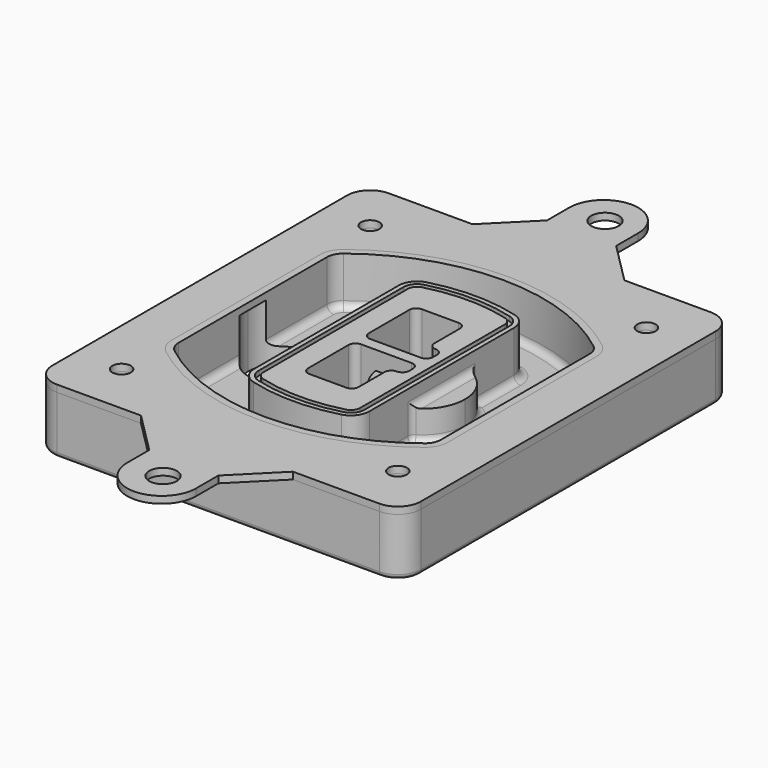
from build123d import *

# Parameters (mm, degrees)
F0_R      = 4
F1_DEPTH  = 25
F2_DEPTH  = 3
F3_DEPTH  = 18
F5_DEPTH  = 21
F6_DEPTH  = 2
F8_DEPTH  = 20
F9_DEPTH  = 16
F10_DEPTH = 25
F7_R      = 6
F7_R_2    = 4
F11_DEPTH = 6
F13_DEPTH = 9
F14_R     = 3
F15_R     = 2
F16_R     = 6
F16_R_2   = 4
F17_DEPTH = 3


with BuildPart() as f1:
    # F0 (on Top) → F1 (new body)
    with BuildSketch(Plane.XY):
        with BuildLine():
            ThreePointArc((14.05, 38.3825811321), (16.9789321881, 31.3115133202), (24.05, 28.3825811321))
            Line((24.05, 28.3825811321), (164.05, 28.3825811321))
            ThreePointArc((164.05, 28.3825811321), (171.1210678119, 31.3115133202), (174.05, 38.3825811321))
            Line((174.05, 38.3825811321), (174.05, 198.3825811321))
            ThreePointArc((174.05, 198.3825811321), (171.1210678119, 205.4536489439), (164.05, 208.3825811321))
            Line((164.05, 208.3825811321), (24.05, 208.3825811321))
            ThreePointArc((24.05, 208.3825811321), (16.9789321881, 205.4536489439), (14.05, 198.3825811321))
            Line((14.05, 198.3825811321), (14.05, 38.3825811321))
        make_face()
        with Locations((34.05, 50.8825811321)):
            Circle(F0_R, mode=Mode.SUBTRACT)
        with Locations((154.05, 50.8825811321)):
            Circle(F0_R, mode=Mode.SUBTRACT)
        with BuildLine():
            ThreePointArc((30.05, 158.6760234193), (31.4679615202, 164.8154295545), (35.4346153846, 169.7112011673))
            ThreePointArc((35.4346153846, 169.7112011673), (94.05, 189.8825811321), (152.6653846154, 169.7112011673))
            ThreePointArc((152.6653846154, 169.7112011673), (156.6320384798, 164.8154295545), (158.05, 158.6760234193))
            Line((158.05, 158.6760234193), (158.05, 78.0891388448))
            ThreePointArc((158.05, 78.0891388448), (156.6320384798, 71.9497327097), (152.6653846154, 67.0539610969))
            ThreePointArc((152.6653846154, 67.0539610969), (94.05, 46.8825811321), (35.4346153846, 67.0539610969))
            ThreePointArc((35.4346153846, 67.0539610969), (31.4679615202, 71.9497327097), (30.05, 78.0891388448))
            Line((30.05, 78.0891388448), (30.05, 158.6760234193))
        make_face(mode=Mode.SUBTRACT)
        with Locations((34.05, 185.8825811321)):
            Circle(F0_R, mode=Mode.SUBTRACT)
        with Locations((154.05, 185.8825811321)):
            Circle(F0_R, mode=Mode.SUBTRACT)
        with BuildLine():
            ThreePointArc((152.6653846154, 169.7112011673), (94.05, 189.8825811321), (35.4346153846, 169.7112011673))
            ThreePointArc((35.4346153846, 169.7112011673), (31.4679615202, 164.8154295545), (30.05, 158.6760234193))
            Line((30.05, 158.6760234193), (30.05, 78.0891388448))
            ThreePointArc((30.05, 78.0891388448), (31.4679615202, 71.9497327097), (35.4346153846, 67.0539610969))
            ThreePointArc((35.4346153846, 67.0539610969), (94.05, 46.8825811321), (152.6653846154, 67.0539610969))
            ThreePointArc((152.6653846154, 67.0539610969), (156.6320384798, 71.9497327097), (158.05, 78.0891388448))
            Line((158.05, 78.0891388448), (158.05, 158.6760234193))
            ThreePointArc((158.05, 158.6760234193), (156.6320384798, 164.8154295545), (152.6653846154, 169.7112011673))
        make_face()
        with BuildLine():
            Line((34.05, 78.0891388448), (34.05, 158.6760234193))
            ThreePointArc((34.05, 158.6760234193), (35.0628296573, 163.0613135158), (37.8961538462, 166.5582932393))
            ThreePointArc((37.8961538462, 166.5582932393), (94.05, 185.8825811321), (150.2038461538, 166.5582932393))
            ThreePointArc((150.2038461538, 166.5582932393), (153.0371703427, 163.0613135158), (154.05, 158.6760234193))
            Line((154.05, 158.6760234193), (154.05, 78.0891388448))
            ThreePointArc((154.05, 78.0891388448), (153.0371703427, 73.7038487483), (150.2038461538, 70.2068690248))
            ThreePointArc((150.2038461538, 70.2068690248), (94.05, 50.8825811321), (37.8961538462, 70.2068690248))
            ThreePointArc((37.8961538462, 70.2068690248), (35.0628296573, 73.7038487483), (34.05, 78.0891388448))
        make_face(mode=Mode.SUBTRACT)
        with BuildLine():
            ThreePointArc((37.8961538462, 166.5582932393), (35.0628296573, 163.0613135158), (34.05, 158.6760234193))
            Line((34.05, 158.6760234193), (34.05, 78.0891388448))
            ThreePointArc((34.05, 78.0891388448), (35.0628296573, 73.7038487483), (37.8961538462, 70.2068690248))
            ThreePointArc((37.8961538462, 70.2068690248), (94.05, 50.8825811321), (150.2038461538, 70.2068690248))
            ThreePointArc((150.2038461538, 70.2068690248), (153.0371703427, 73.7038487483), (154.05, 78.0891388448))
            Line((154.05, 78.0891388448), (154.05, 158.6760234193))
            ThreePointArc((154.05, 158.6760234193), (153.0371703427, 163.0613135158), (150.2038461538, 166.5582932393))
            ThreePointArc((150.2038461538, 166.5582932393), (94.05, 185.8825811321), (37.8961538462, 166.5582932393))
        make_face()
        with BuildLine():
            ThreePointArc((148.3576923077, 164.1936122933), (150.3410192399, 161.7457264869), (151.05, 158.6760234193))
            Line((151.05, 158.6760234193), (151.05, 78.0891388448))
            ThreePointArc((151.05, 78.0891388448), (150.3410192399, 75.0194357772), (148.3576923077, 72.5715499708))
            ThreePointArc((148.3576923077, 72.5715499708), (94.05, 53.8825811321), (39.7423076923, 72.5715499708))
            ThreePointArc((39.7423076923, 72.5715499708), (37.7589807601, 75.0194357772), (37.05, 78.0891388448))
            Line((37.05, 78.0891388448), (37.05, 158.6760234193))
            ThreePointArc((37.05, 158.6760234193), (37.7589807601, 161.7457264869), (39.7423076923, 164.1936122933))
            ThreePointArc((39.7423076923, 164.1936122933), (94.05, 182.8825811321), (148.3576923077, 164.1936122933))
        make_face(mode=Mode.SUBTRACT)
        with BuildLine():
            Line((151.05, 78.0891388448), (151.05, 158.6760234193))
            ThreePointArc((151.05, 158.6760234193), (150.3410192399, 161.7457264869), (148.3576923077, 164.1936122933))
            ThreePointArc((148.3576923077, 164.1936122933), (94.05, 182.8825811321), (39.7423076923, 164.1936122933))
            ThreePointArc((39.7423076923, 164.1936122933), (37.7589807601, 161.7457264869), (37.05, 158.6760234193))
            Line((37.05, 158.6760234193), (37.05, 78.0891388448))
            ThreePointArc((37.05, 78.0891388448), (37.7589807601, 75.0194357772), (39.7423076923, 72.5715499708))
            ThreePointArc((39.7423076923, 72.5715499708), (94.05, 53.8825811321), (148.3576923077, 72.5715499708))
            ThreePointArc((148.3576923077, 72.5715499708), (150.3410192399, 75.0194357772), (151.05, 78.0891388448))
        make_face()
    extrude(amount=-F1_DEPTH)

    # F0 (on Top) → F2 (join)
    with BuildSketch(Plane.XY):
        with BuildLine():
            ThreePointArc((37.8961538462, 166.5582932393), (35.0628296573, 163.0613135158), (34.05, 158.6760234193))
            Line((34.05, 158.6760234193), (34.05, 78.0891388448))
            ThreePointArc((34.05, 78.0891388448), (35.0628296573, 73.7038487483), (37.8961538462, 70.2068690248))
            ThreePointArc((37.8961538462, 70.2068690248), (94.05, 50.8825811321), (150.2038461538, 70.2068690248))
            ThreePointArc((150.2038461538, 70.2068690248), (153.0371703427, 73.7038487483), (154.05, 78.0891388448))
            Line((154.05, 78.0891388448), (154.05, 158.6760234193))
            ThreePointArc((154.05, 158.6760234193), (153.0371703427, 163.0613135158), (150.2038461538, 166.5582932393))
            ThreePointArc((150.2038461538, 166.5582932393), (94.05, 185.8825811321), (37.8961538462, 166.5582932393))
        make_face()
        with BuildLine():
            ThreePointArc((148.3576923077, 164.1936122933), (150.3410192399, 161.7457264869), (151.05, 158.6760234193))
            Line((151.05, 158.6760234193), (151.05, 78.0891388448))
            ThreePointArc((151.05, 78.0891388448), (150.3410192399, 75.0194357772), (148.3576923077, 72.5715499708))
            ThreePointArc((148.3576923077, 72.5715499708), (94.05, 53.8825811321), (39.7423076923, 72.5715499708))
            ThreePointArc((39.7423076923, 72.5715499708), (37.7589807601, 75.0194357772), (37.05, 78.0891388448))
            Line((37.05, 78.0891388448), (37.05, 158.6760234193))
            ThreePointArc((37.05, 158.6760234193), (37.7589807601, 161.7457264869), (39.7423076923, 164.1936122933))
            ThreePointArc((39.7423076923, 164.1936122933), (94.05, 182.8825811321), (148.3576923077, 164.1936122933))
        make_face(mode=Mode.SUBTRACT)
    extrude(amount=F2_DEPTH)

    # F0 (on Top) → F3 (cut)
    with BuildSketch(Plane.XY):
        with BuildLine():
            Line((151.05, 78.0891388448), (151.05, 158.6760234193))
            ThreePointArc((151.05, 158.6760234193), (150.3410192399, 161.7457264869), (148.3576923077, 164.1936122933))
            ThreePointArc((148.3576923077, 164.1936122933), (94.05, 182.8825811321), (39.7423076923, 164.1936122933))
            ThreePointArc((39.7423076923, 164.1936122933), (37.7589807601, 161.7457264869), (37.05, 158.6760234193))
            Line((37.05, 158.6760234193), (37.05, 78.0891388448))
            ThreePointArc((37.05, 78.0891388448), (37.7589807601, 75.0194357772), (39.7423076923, 72.5715499708))
            ThreePointArc((39.7423076923, 72.5715499708), (94.05, 53.8825811321), (148.3576923077, 72.5715499708))
            ThreePointArc((148.3576923077, 72.5715499708), (150.3410192399, 75.0194357772), (151.05, 78.0891388448))
        make_face()
    extrude(amount=-F3_DEPTH, mode=Mode.SUBTRACT)

    # F4 (on face) → F5 (join, through all)
    with BuildSketch(Plane.XY.offset(3)):
        with BuildLine():
            ThreePointArc((69.05, 79.13605345), (70.6988454002, 74.2716074128), (74.9657088123, 71.4123412437))
            ThreePointArc((74.9657088123, 71.4123412437), (94.05, 68.8825811321), (113.1342911877, 71.4123412437))
            ThreePointArc((113.1342911877, 71.4123412437), (117.4011545998, 74.2716074128), (119.05, 79.13605345))
            Line((119.05, 79.13605345), (119.05, 157.6291088141))
            ThreePointArc((119.05, 157.6291088141), (117.4011545998, 162.4935548514), (113.1342911877, 165.3528210204))
            ThreePointArc((113.1342911877, 165.3528210204), (94.05, 167.8825811321), (74.9657088123, 165.3528210204))
            ThreePointArc((74.9657088123, 165.3528210204), (70.6988454002, 162.4935548514), (69.05, 157.6291088141))
            Line((69.05, 157.6291088141), (69.05, 79.13605345))
        make_face()
        with BuildLine():
            ThreePointArc((112.6132183908, 163.4218929688), (115.8133659499, 161.2774433421), (117.05, 157.6291088141))
            Line((117.05, 157.6291088141), (117.05, 79.13605345))
            ThreePointArc((117.05, 79.13605345), (115.8133659499, 75.4877189221), (112.6132183908, 73.3432692953))
            ThreePointArc((112.6132183908, 73.3432692953), (94.05, 70.8825811321), (75.4867816092, 73.3432692953))
            ThreePointArc((75.4867816092, 73.3432692953), (72.2866340501, 75.4877189221), (71.05, 79.13605345))
            Line((71.05, 79.13605345), (71.05, 157.6291088141))
            ThreePointArc((71.05, 157.6291088141), (72.2866340501, 161.2774433421), (75.4867816092, 163.4218929688))
            ThreePointArc((75.4867816092, 163.4218929688), (94.05, 165.8825811321), (112.6132183908, 163.4218929688))
        make_face(mode=Mode.SUBTRACT)
        with BuildLine():
            Line((117.05, 79.13605345), (117.05, 157.6291088141))
            ThreePointArc((117.05, 157.6291088141), (115.8133659499, 161.2774433421), (112.6132183908, 163.4218929688))
            ThreePointArc((112.6132183908, 163.4218929688), (94.05, 165.8825811321), (75.4867816092, 163.4218929688))
            ThreePointArc((75.4867816092, 163.4218929688), (72.2866340501, 161.2774433421), (71.05, 157.6291088141))
            Line((71.05, 157.6291088141), (71.05, 79.13605345))
            ThreePointArc((71.05, 79.13605345), (72.2866340501, 75.4877189221), (75.4867816092, 73.3432692953))
            ThreePointArc((75.4867816092, 73.3432692953), (94.05, 70.8825811321), (112.6132183908, 73.3432692953))
            ThreePointArc((112.6132183908, 73.3432692953), (115.8133659499, 75.4877189221), (117.05, 79.13605345))
        make_face()
        with BuildLine():
            ThreePointArc((112.0921455939, 161.4909649173), (114.2255772999, 160.0613318328), (115.05, 157.6291088141))
            Line((115.05, 157.6291088141), (115.05, 79.13605345))
            ThreePointArc((115.05, 79.13605345), (114.2255772999, 76.7038304314), (112.0921455939, 75.2741973469))
            ThreePointArc((112.0921455939, 75.2741973469), (94.05, 72.8825811321), (76.0078544061, 75.2741973469))
            ThreePointArc((76.0078544061, 75.2741973469), (73.8744227001, 76.7038304314), (73.05, 79.13605345))
            Line((73.05, 79.13605345), (73.05, 157.6291088141))
            ThreePointArc((73.05, 157.6291088141), (73.8744227001, 160.0613318328), (76.0078544061, 161.4909649173))
            ThreePointArc((76.0078544061, 161.4909649173), (94.05, 163.8825811321), (112.0921455939, 161.4909649173))
        make_face(mode=Mode.SUBTRACT)
        with BuildLine():
            Line((115.05, 79.13605345), (115.05, 157.6291088141))
            ThreePointArc((115.05, 157.6291088141), (114.2255772999, 160.0613318328), (112.0921455939, 161.4909649173))
            ThreePointArc((112.0921455939, 161.4909649173), (94.05, 163.8825811321), (76.0078544061, 161.4909649173))
            ThreePointArc((76.0078544061, 161.4909649173), (73.8744227001, 160.0613318328), (73.05, 157.6291088141))
            Line((73.05, 157.6291088141), (73.05, 79.13605345))
            ThreePointArc((73.05, 79.13605345), (73.8744227001, 76.7038304314), (76.0078544061, 75.2741973469))
            ThreePointArc((76.0078544061, 75.2741973469), (94.05, 72.8825811321), (112.0921455939, 75.2741973469))
            ThreePointArc((112.0921455939, 75.2741973469), (114.2255772999, 76.7038304314), (115.05, 79.13605345))
        make_face()
        with BuildLine():
            Line((86.05, 115.8825811321), (108.05, 115.8825811321))
            ThreePointArc((108.05, 115.8825811321), (110.1713203436, 115.0039014756), (111.05, 112.8825811321))
            Line((111.05, 112.8825811321), (111.05, 110.8825811321))
            ThreePointArc((111.05, 110.8825811321), (110.1713203436, 108.7612607885), (108.05, 107.8825811321))
            ThreePointArc((108.05, 107.8825811321), (105.9286796564, 107.0039014756), (105.05, 104.8825811321))
            Line((105.05, 104.8825811321), (105.05, 90.8825811321))
            ThreePointArc((105.05, 90.8825811321), (104.1713203436, 88.7612607885), (102.05, 87.8825811321))
            Line((102.05, 87.8825811321), (86.05, 87.8825811321))
            ThreePointArc((86.05, 87.8825811321), (83.9286796564, 88.7612607885), (83.05, 90.8825811321))
            Line((83.05, 90.8825811321), (83.05, 112.8825811321))
            ThreePointArc((83.05, 112.8825811321), (83.9286796564, 115.0039014756), (86.05, 115.8825811321))
        make_face(mode=Mode.SUBTRACT)
        with BuildLine():
            ThreePointArc((86.05, 120.8825811321), (83.9286796564, 121.7612607885), (83.05, 123.8825811321))
            Line((83.05, 123.8825811321), (83.05, 145.8825811321))
            ThreePointArc((83.05, 145.8825811321), (83.9286796564, 148.0039014756), (86.05, 148.8825811321))
            Line((86.05, 148.8825811321), (102.05, 148.8825811321))
            ThreePointArc((102.05, 148.8825811321), (104.1713203436, 148.0039014756), (105.05, 145.8825811321))
            Line((105.05, 145.8825811321), (105.05, 131.8825811321))
            ThreePointArc((105.05, 131.8825811321), (105.9286796564, 129.7612607885), (108.05, 128.8825811321))
            ThreePointArc((108.05, 128.8825811321), (110.1713203436, 128.0039014756), (111.05, 125.8825811321))
            Line((111.05, 125.8825811321), (111.05, 123.8825811321))
            ThreePointArc((111.05, 123.8825811321), (110.1713203436, 121.7612607885), (108.05, 120.8825811321))
            Line((108.05, 120.8825811321), (86.05, 120.8825811321))
        make_face(mode=Mode.SUBTRACT)
    extrude(amount=-F5_DEPTH)

    # F4 (on face) → F6 (cut)
    with BuildSketch(Plane.XY.offset(3)):
        with BuildLine():
            Line((117.05, 79.13605345), (117.05, 157.6291088141))
            ThreePointArc((117.05, 157.6291088141), (115.8133659499, 161.2774433421), (112.6132183908, 163.4218929688))
            ThreePointArc((112.6132183908, 163.4218929688), (94.05, 165.8825811321), (75.4867816092, 163.4218929688))
            ThreePointArc((75.4867816092, 163.4218929688), (72.2866340501, 161.2774433421), (71.05, 157.6291088141))
            Line((71.05, 157.6291088141), (71.05, 79.13605345))
            ThreePointArc((71.05, 79.13605345), (72.2866340501, 75.4877189221), (75.4867816092, 73.3432692953))
            ThreePointArc((75.4867816092, 73.3432692953), (94.05, 70.8825811321), (112.6132183908, 73.3432692953))
            ThreePointArc((112.6132183908, 73.3432692953), (115.8133659499, 75.4877189221), (117.05, 79.13605345))
        make_face()
        with BuildLine():
            ThreePointArc((112.0921455939, 161.4909649173), (114.2255772999, 160.0613318328), (115.05, 157.6291088141))
            Line((115.05, 157.6291088141), (115.05, 79.13605345))
            ThreePointArc((115.05, 79.13605345), (114.2255772999, 76.7038304314), (112.0921455939, 75.2741973469))
            ThreePointArc((112.0921455939, 75.2741973469), (94.05, 72.8825811321), (76.0078544061, 75.2741973469))
            ThreePointArc((76.0078544061, 75.2741973469), (73.8744227001, 76.7038304314), (73.05, 79.13605345))
            Line((73.05, 79.13605345), (73.05, 157.6291088141))
            ThreePointArc((73.05, 157.6291088141), (73.8744227001, 160.0613318328), (76.0078544061, 161.4909649173))
            ThreePointArc((76.0078544061, 161.4909649173), (94.05, 163.8825811321), (112.0921455939, 161.4909649173))
        make_face(mode=Mode.SUBTRACT)
    extrude(amount=-F6_DEPTH, mode=Mode.SUBTRACT)

    # F7 (on face) → F8 (join)
    with BuildSketch(Plane(origin=(0, 0, -25), x_dir=(1, 0, 0), z_dir=(0, 0, -1))):
        with BuildLine():
            ThreePointArc((97.33842436, -118.3825811321), (110.8067035675, -104.9143019245), (124.274982775, -118.3825811321))
            Line((124.274982775, -118.3825811321), (129.274982775, -118.3825811321))
            ThreePointArc((129.274982775, -118.3825811321), (110.8067035675, -99.9143019245), (92.33842436, -118.3825811321))
            Line((92.33842436, -118.3825811321), (97.33842436, -118.3825811321))
        make_face()
        with BuildLine():
            Line((97.33842436, -118.3825811321), (124.274982775, -118.3825811321))
            ThreePointArc((124.274982775, -118.3825811321), (110.8067035675, -104.9143019245), (97.33842436, -118.3825811321))
        make_face()
        with BuildLine():
            ThreePointArc((97.33842436, -118.3825811321), (110.8067035675, -131.8508603396), (124.274982775, -118.3825811321))
            Line((124.274982775, -118.3825811321), (97.33842436, -118.3825811321))
        make_face()
        with BuildLine():
            Line((129.274982775, -118.3825811321), (124.274982775, -118.3825811321))
            ThreePointArc((124.274982775, -118.3825811321), (110.8067035675, -131.8508603396), (97.33842436, -118.3825811321))
            Line((97.33842436, -118.3825811321), (92.33842436, -118.3825811321))
            ThreePointArc((92.33842436, -118.3825811321), (110.8067035675, -136.8508603396), (129.274982775, -118.3825811321))
        make_face()
    extrude(amount=-F8_DEPTH)

    # F7 (on face) → F9 (cut)
    with BuildSketch(Plane(origin=(0, 0, -25), x_dir=(1, 0, 0), z_dir=(0, 0, -1))):
        with BuildLine():
            Line((97.33842436, -118.3825811321), (124.274982775, -118.3825811321))
            ThreePointArc((124.274982775, -118.3825811321), (110.8067035675, -104.9143019245), (97.33842436, -118.3825811321))
        make_face()
        with BuildLine():
            ThreePointArc((97.33842436, -118.3825811321), (110.8067035675, -131.8508603396), (124.274982775, -118.3825811321))
            Line((124.274982775, -118.3825811321), (97.33842436, -118.3825811321))
        make_face()
    extrude(amount=-F9_DEPTH, mode=Mode.SUBTRACT)

    # F7 (on face) → F10 (cut)
    with BuildSketch(Plane(origin=(0, 0, -25), x_dir=(1, 0, 0), z_dir=(0, 0, -1))):
        with BuildLine():
            Line((35.0181770675, -118.3825811321), (61.9547354825, -118.3825811321))
            ThreePointArc((61.9547354825, -118.3825811321), (48.486456275, -104.9143019245), (35.0181770675, -118.3825811321))
        make_face()
        with BuildLine():
            ThreePointArc((35.0181770675, -118.3825811321), (48.486456275, -131.8508603396), (61.9547354825, -118.3825811321))
            Line((61.9547354825, -118.3825811321), (35.0181770675, -118.3825811321))
        make_face()
    extrude(amount=-F10_DEPTH, mode=Mode.SUBTRACT)

    # F7 (on face) → F11 (cut)
    with BuildSketch(Plane(origin=(0, 0, -25), x_dir=(1, 0, 0), z_dir=(0, 0, -1))):
        with Locations((154.05, -185.8825811321)):
            Circle(F7_R)
        with Locations((154.05, -185.8825811321)):
            Circle(F7_R_2, mode=Mode.SUBTRACT)
        with Locations((154.05, -185.8825811321)):
            Circle(F7_R)
        with Locations((154.05, -185.8825811321)):
            Circle(F7_R_2, mode=Mode.SUBTRACT)
        with Locations((34.05, -185.8825811321)):
            Circle(F7_R)
        with Locations((34.05, -185.8825811321)):
            Circle(F7_R_2, mode=Mode.SUBTRACT)
        with Locations((34.05, -185.8825811321)):
            Circle(F7_R)
        with Locations((34.05, -185.8825811321)):
            Circle(F7_R_2, mode=Mode.SUBTRACT)
        with Locations((34.05, -50.8825811321)):
            Circle(F7_R)
        with Locations((34.05, -50.8825811321)):
            Circle(F7_R_2, mode=Mode.SUBTRACT)
        with Locations((34.05, -50.8825811321)):
            Circle(F7_R)
        with Locations((34.05, -50.8825811321)):
            Circle(F7_R_2, mode=Mode.SUBTRACT)
        with Locations((154.05, -50.8825811321)):
            Circle(F7_R)
        with Locations((154.05, -50.8825811321)):
            Circle(F7_R_2, mode=Mode.SUBTRACT)
        with Locations((154.05, -50.8825811321)):
            Circle(F7_R)
        with Locations((154.05, -50.8825811321)):
            Circle(F7_R_2, mode=Mode.SUBTRACT)
    extrude(amount=-F11_DEPTH, mode=Mode.SUBTRACT)

    # F12 (on face) → F13 (cut, through all)
    with BuildSketch(Plane(origin=(0, 0, -9), x_dir=(1, 0, 0), z_dir=(0, 0, -1))):
        with BuildLine():
            Line((105.05, -104.8825811321), (105.05, -100.8344273567))
            ThreePointArc((105.05, -100.8344273567), (96.6196536419, -106.5586667507), (92.5084157545, -115.8825811321))
            Line((92.5084157545, -115.8825811321), (97.5724848595, -115.8825811321))
            ThreePointArc((97.5724848595, -115.8825811321), (100.2357188154, -110.0369939039), (105.3036447004, -106.0898642673))
            ThreePointArc((105.3036447004, -106.0898642673), (105.1140958889, -105.4994012441), (105.05, -104.8825811321))
        make_face()
        with BuildLine():
            ThreePointArc((105.3036447004, -130.6752979968), (100.2357188154, -126.7281683602), (97.5724848595, -120.8825811321))
            Line((97.5724848595, -120.8825811321), (92.5084157545, -120.8825811321))
            ThreePointArc((92.5084157545, -120.8825811321), (96.6196536419, -130.2064955134), (105.05, -135.9307349074))
            Line((105.05, -135.9307349074), (105.05, -131.8825811321))
            ThreePointArc((105.05, -131.8825811321), (105.1140958889, -131.26576102), (105.3036447004, -130.6752979968))
        make_face()
        with BuildLine():
            ThreePointArc((105.3036447004, -106.0898642673), (100.2357188154, -110.0369939039), (97.5724848595, -115.8825811321))
            Line((97.5724848595, -115.8825811321), (108.05, -115.8825811321))
            ThreePointArc((108.05, -115.8825811321), (110.1713203436, -115.0039014756), (111.05, -112.8825811321))
            Line((111.05, -112.8825811321), (111.05, -110.8825811321))
            ThreePointArc((111.05, -110.8825811321), (110.1713203436, -108.7612607885), (108.05, -107.8825811321))
            ThreePointArc((108.05, -107.8825811321), (106.4101599782, -107.3947365219), (105.3036447004, -106.0898642673))
        make_face()
        with BuildLine():
            Line((108.05, -120.8825811321), (97.5724848595, -120.8825811321))
            ThreePointArc((97.5724848595, -120.8825811321), (100.2357188154, -126.7281683602), (105.3036447004, -130.6752979968))
            ThreePointArc((105.3036447004, -130.6752979968), (106.4101599782, -129.3704257422), (108.05, -128.8825811321))
            ThreePointArc((108.05, -128.8825811321), (110.1713203436, -128.0039014756), (111.05, -125.8825811321))
            Line((111.05, -125.8825811321), (111.05, -123.8825811321))
            ThreePointArc((111.05, -123.8825811321), (110.1713203436, -121.7612607885), (108.05, -120.8825811321))
        make_face()
    extrude(amount=F13_DEPTH, mode=Mode.SUBTRACT)

    # F14
    f14_edges = [f1.edges().sort_by_distance(p)[0] for p in [
        (37.05, 94.679105, -18),
        (37.05, 142.086057, -18),
        (119.05, 118.382581, -5),
        (119.05, 134.909087, -11.5),
        (119.05, 101.856075, -11.5),
        (119.05, 90.496064, -18),
        (129.274983, 118.382581, -18),
    ]]
    fillet(f14_edges, radius=F14_R)

    # F15
    f15_edges = [f1.edges().sort_by_distance(p)[0] for p in [
        (94.05, 28.382581, -25),
    ]]
    fillet(f15_edges, radius=F15_R)


with BuildPart() as f17:
    # F16 (on face) → F17 (new body, through all)
    with BuildSketch(Plane.XY):
        with BuildLine():
            Line((78.4921715856, 226.3825811321), (60.4921715856, 208.3825811321))
            Line((60.4921715856, 208.3825811321), (126.4921715856, 208.3825811321))
            Line((126.4921715856, 208.3825811321), (108.4921715856, 226.3825811321))
            Line((108.4921715856, 226.3825811321), (108.4921715856, 238.3825811321))
            ThreePointArc((108.4921715856, 238.3825811321), (93.4921715856, 253.3825811321), (78.4921715856, 238.3825811321))
            Line((78.4921715856, 238.3825811321), (78.4921715856, 226.3825811321))
        make_face()
        with Locations((94.05, 238.3825811321)):
            Circle(F16_R, mode=Mode.SUBTRACT)
        with BuildLine():
            Line((126.4921715856, 208.3825811321), (60.4921715856, 208.3825811321))
            Line((60.4921715856, 208.3825811321), (24.05, 208.3825811321))
            ThreePointArc((24.05, 208.3825811321), (16.9789321881, 205.4536489439), (14.05, 198.3825811321))
            Line((14.05, 198.3825811321), (14.05, 38.3825811321))
            ThreePointArc((14.05, 38.3825811321), (16.9789321881, 31.3115133202), (24.05, 28.3825811321))
            Line((24.05, 28.3825811321), (60.4921715856, 28.3825811321))
            Line((60.4921715856, 28.3825811321), (126.4921715856, 28.3825811321))
            Line((126.4921715856, 28.3825811321), (164.05, 28.3825811321))
            ThreePointArc((164.05, 28.3825811321), (171.1210678119, 31.3115133202), (174.05, 38.3825811321))
            Line((174.05, 38.3825811321), (174.05, 198.3825811321))
            ThreePointArc((174.05, 198.3825811321), (171.1210678119, 205.4536489439), (164.05, 208.3825811321))
            Line((164.05, 208.3825811321), (126.4921715856, 208.3825811321))
        make_face()
        with Locations((34.05, 50.8825811321)):
            Circle(F16_R_2, mode=Mode.SUBTRACT)
        with BuildLine():
            ThreePointArc((34.05, 158.6760234193), (35.0628296573, 163.0613135158), (37.8961538462, 166.5582932393))
            ThreePointArc((37.8961538462, 166.5582932393), (94.05, 185.8825811321), (150.2038461538, 166.5582932393))
            ThreePointArc((150.2038461538, 166.5582932393), (153.0371703427, 163.0613135158), (154.05, 158.6760234193))
            Line((154.05, 158.6760234193), (154.05, 78.0891388448))
            ThreePointArc((154.05, 78.0891388448), (153.0371703427, 73.7038487483), (150.2038461538, 70.2068690248))
            ThreePointArc((150.2038461538, 70.2068690248), (94.05, 50.8825811321), (37.8961538462, 70.2068690248))
            ThreePointArc((37.8961538462, 70.2068690248), (35.0628296573, 73.7038487483), (34.05, 78.0891388448))
            Line((34.05, 78.0891388448), (34.05, 158.6760234193))
        make_face(mode=Mode.SUBTRACT)
        with Locations((154.05, 50.8825811321)):
            Circle(F16_R_2, mode=Mode.SUBTRACT)
        with Locations((34.05, 185.8825811321)):
            Circle(F16_R_2, mode=Mode.SUBTRACT)
        with Locations((154.05, 185.8825811321)):
            Circle(F16_R_2, mode=Mode.SUBTRACT)
        with BuildLine():
            Line((126.4921715856, 28.3825811321), (60.4921715856, 28.3825811321))
            Line((60.4921715856, 28.3825811321), (78.4921715856, 10.3825811321))
            Line((78.4921715856, 10.3825811321), (78.4921715856, -1.6174188679))
            ThreePointArc((78.4921715856, -1.6174188679), (93.4921715856, -16.6174188679), (108.4921715856, -1.6174188679))
            Line((108.4921715856, -1.6174188679), (108.4921715856, 10.3825811321))
            Line((108.4921715856, 10.3825811321), (126.4921715856, 28.3825811321))
        make_face()
        with Locations((94.05, -1.6174188679)):
            Circle(F16_R, mode=Mode.SUBTRACT)
    extrude(amount=F17_DEPTH)


solid = Compound([f1.part, f17.part])
